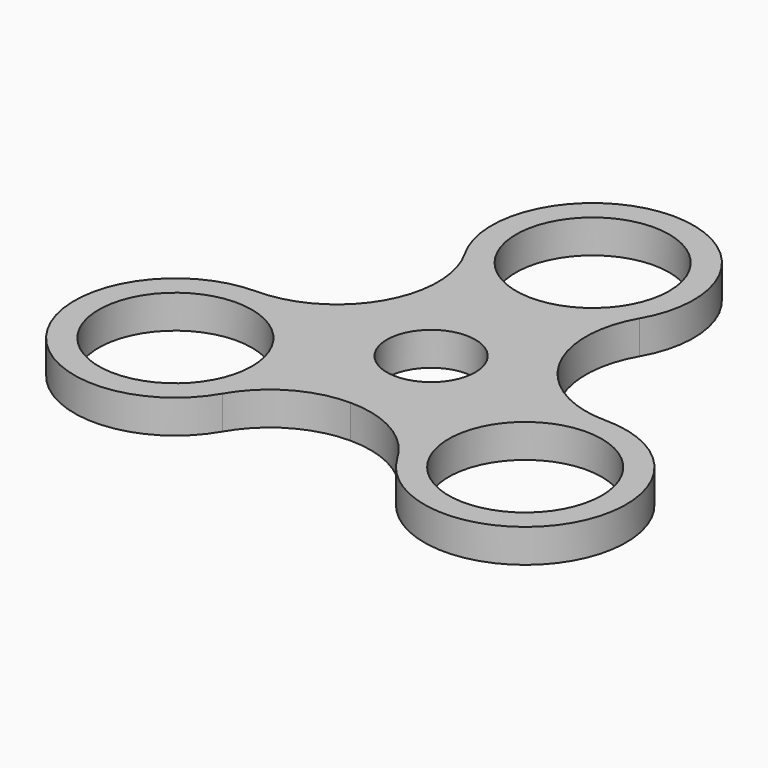
from build123d import *

# Parameters (mm, degrees)
F0_R     = 6.35
F0_R_2   = 11
F1_DEPTH = 4.8


with BuildPart() as f1:
    # F0 (on Top) → F1 (new body)
    with BuildSketch(Plane.XY):
        with BuildLine():
            ThreePointArc((0, -14.5), (10.2530483272, -10.2530483272), (14.5, 0))
            ThreePointArc((14.5, 0), (14.0059244812, 3.752876154), (12.5573683549, 7.25))
            ThreePointArc((12.5573683549, 7.25), (0, 14.5), (-12.5573683549, 7.25))
            ThreePointArc((-12.5573683549, 7.25), (-12.5573683549, -7.25), (0, -14.5))
        make_face()
        Circle(F0_R, mode=Mode.SUBTRACT)
        with BuildLine():
            ThreePointArc((12.5573683549, 7.25), (14.0059244812, 3.752876154), (14.5, 0))
            ThreePointArc((14.5, 0), (10.2530483272, -10.2530483272), (0, -14.5))
            ThreePointArc((0, -14.5), (7.25, -16.4426316451), (12.5573683549, -21.75))
            ThreePointArc((12.5573683549, -21.75), (37.6721050646, -21.75), (25.1147367097, 0))
            ThreePointArc((25.1147367097, 0), (17.8647367097, 1.9426316451), (12.5573683549, 7.25))
        make_face()
        with Locations((25.1147367097, -14.5)):
            Circle(F0_R_2, mode=Mode.SUBTRACT)
        with BuildLine():
            ThreePointArc((-12.5573683549, 7.25), (0, 14.5), (12.5573683549, 7.25))
            ThreePointArc((12.5573683549, 7.25), (10.6147367097, 14.5), (12.5573683549, 21.75))
            ThreePointArc((12.5573683549, 21.75), (0, 43.5), (-12.5573683549, 21.75))
            ThreePointArc((-12.5573683549, 21.75), (-10.6147367097, 14.5), (-12.5573683549, 7.25))
        make_face()
        with Locations((0, 29)):
            Circle(F0_R_2, mode=Mode.SUBTRACT)
        with BuildLine():
            ThreePointArc((-12.5573683549, -21.75), (-7.25, -16.4426316451), (0, -14.5))
            ThreePointArc((0, -14.5), (-12.5573683549, -7.25), (-12.5573683549, 7.25))
            ThreePointArc((-12.5573683549, 7.25), (-17.8647367097, 1.9426316451), (-25.1147367097, 0))
            ThreePointArc((-25.1147367097, 0), (-37.6721050646, -21.75), (-12.5573683549, -21.75))
        make_face()
        with Locations((-25.1147367097, -14.5)):
            Circle(F0_R_2, mode=Mode.SUBTRACT)
    extrude(amount=F1_DEPTH)


solid = f1.part
